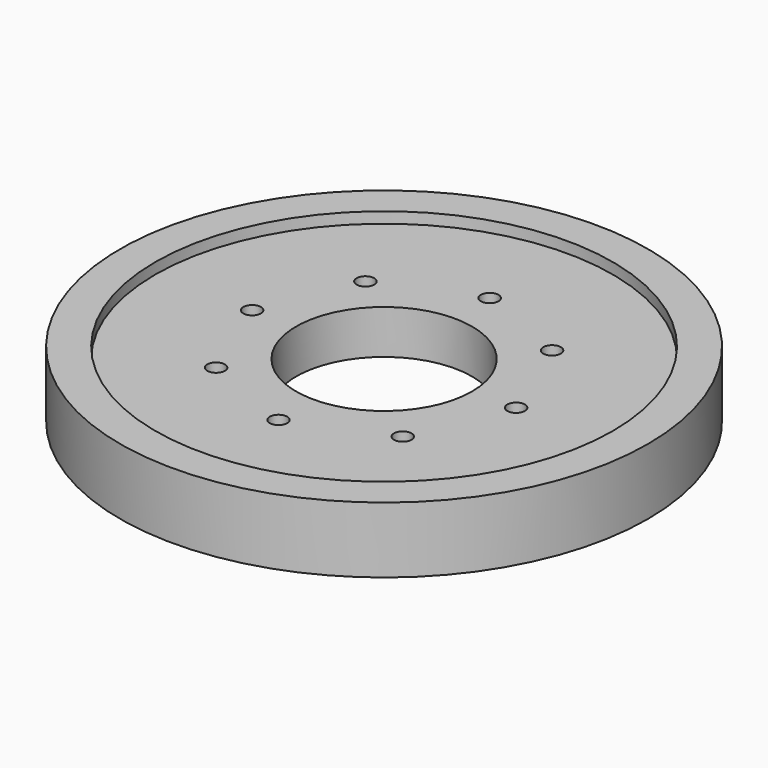
from build123d import *

# Parameters (mm, degrees)
F0_R     = 38.1
F1_DEPTH = 9.525
F2_R     = 33.02
F3_DEPTH = 1.5875
F4_R     = 33.02
F5_DEPTH = 1.5875
F6_R     = 12.7
F6_R_2   = 1.27
F7_DEPTH = 25.4


with BuildPart() as f1:
    # F0 (on Top) → F1 (new body)
    with BuildSketch(Plane.XY):
        Circle(F0_R)
    extrude(amount=F1_DEPTH)

    # F2 (on face) → F3 (cut)
    with BuildSketch(Plane(origin=(0, 0, 0), x_dir=(1, 0, 0), z_dir=(0, 0, -1))):
        Circle(F2_R)
    extrude(amount=-F3_DEPTH, mode=Mode.SUBTRACT)

    # F4 (on face) → F5 (cut)
    with BuildSketch(Plane.XY.offset(9.525)):
        Circle(F4_R)
    extrude(amount=-F5_DEPTH, mode=Mode.SUBTRACT)

    # F6 (on face) → F7 (cut)
    with BuildSketch(Plane(origin=(0, 0, 1.5875), x_dir=(1, 0, 0), z_dir=(0, 0, -1))):
        Circle(F6_R)
        with Locations((-19.05, 0)):
            Circle(F6_R_2)
        with Locations((-13.470384, -13.470384)):
            Circle(F6_R_2)
        with Locations((0, -19.05)):
            Circle(F6_R_2)
        with Locations((13.470384, -13.470384)):
            Circle(F6_R_2)
        with Locations((19.05, 0)):
            Circle(F6_R_2)
        with Locations((13.470384, 13.470384)):
            Circle(F6_R_2)
        with Locations((0, 19.05)):
            Circle(F6_R_2)
        with Locations((-13.470384, 13.470384)):
            Circle(F6_R_2)
    extrude(amount=-F7_DEPTH, mode=Mode.SUBTRACT)


solid = f1.part
